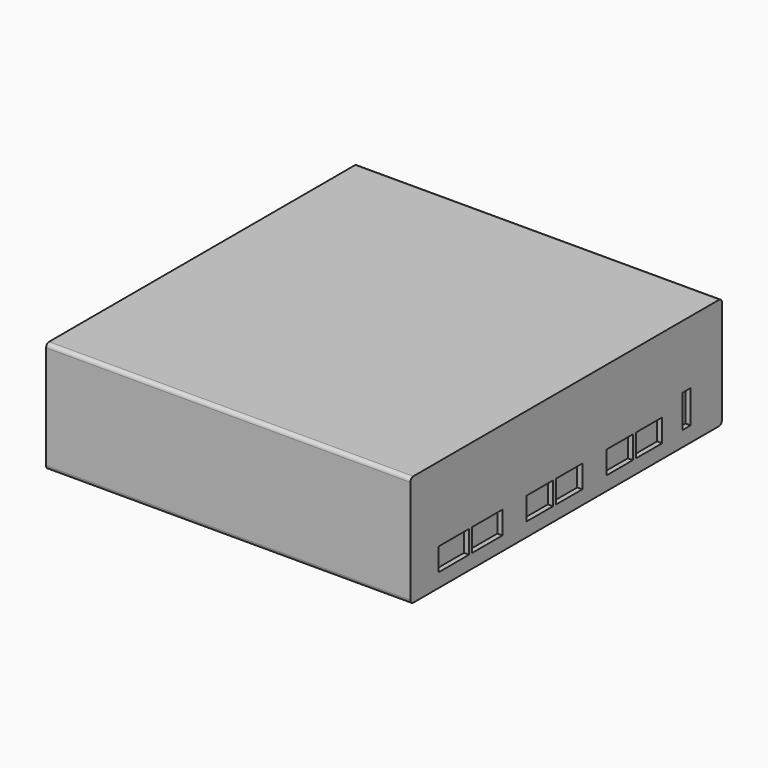
from build123d import *

# Parameters (mm, degrees)
F0_W     = 144
F0_H     = 154
F1_DEPTH = 44
F2_W     = 15
F2_H     = 9
F2_W_2   = 13
F2_W_3   = 4
F2_H_2   = 13
F3_DEPTH = 2
F4_R     = 1.5


with BuildPart() as f1:
    # F0 (on Top) → F1 (new body)
    with BuildSketch(Plane.XY):
        Rectangle(F0_W, F0_H)
    extrude(amount=F1_DEPTH)

    # F2 (on face) → F3 (cut)
    with BuildSketch(Plane.YZ.offset(72)):
        with Locations((-55.5, 10)):
            Rectangle(F2_W, F2_H)
        with Locations((-39, 10)):
            Rectangle(F2_W, F2_H)
        with Locations((-13, 10)):
            Rectangle(F2_W_2, F2_H)
        with Locations((1.5, 10)):
            Rectangle(F2_W_2, F2_H)
        with Locations((26.5, 10)):
            Rectangle(F2_W_2, F2_H)
        with Locations((41, 10)):
            Rectangle(F2_W_2, F2_H)
        with Locations((59.5, 12.5)):
            Rectangle(F2_W_3, F2_H_2)
    extrude(amount=-F3_DEPTH, mode=Mode.SUBTRACT)

    # F4
    f4_edges = [f1.edges().sort_by_distance(p)[0] for p in [
        (0, -77, 44),
        (0, 77, 44),
        (0, -77, 0),
        (0, 77, 0),
    ]]
    fillet(f4_edges, radius=F4_R)


solid = f1.part
